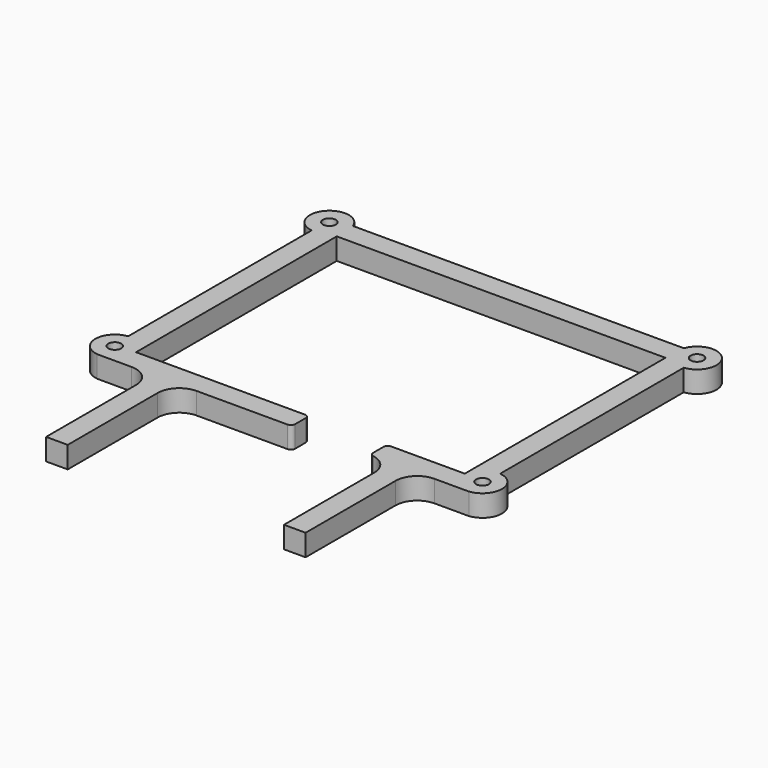
from build123d import *

# Parameters (mm, degrees)
F0_W      = 86
F0_H      = 68
F1_DEPTH  = 5
F2_W      = 76
F2_H      = 58
F3_DEPTH  = 5
F4_W      = 18
F4_H      = 5
F5_DEPTH  = 5
F6_R      = 4.5
F7_DEPTH  = 5
F8_R      = 1.5
F9_DEPTH  = 5
F10_R     = 1
F11_W     = 5
F11_H     = 5
F12_DEPTH = 31
F13_R     = 5


with BuildPart() as f1:
    # F0 (on Top) → F1 (new body)
    with BuildSketch(Plane.XY):
        Rectangle(F0_W, F0_H)
    extrude(amount=F1_DEPTH)

    # F2 (on face) → F3 (cut, through all)
    with BuildSketch(Plane.XY.offset(5)):
        Rectangle(F2_W, F2_H)
    extrude(amount=-F3_DEPTH, mode=Mode.SUBTRACT)

    # F4 (on face) → F5 (cut, through all)
    with BuildSketch(Plane.XY.offset(5)):
        with Locations((11, -31.5)):
            Rectangle(F4_W, F4_H)
    extrude(amount=-F5_DEPTH, mode=Mode.SUBTRACT)

    # F6 (on face) → F7 (join)
    with BuildSketch(Plane.XY.offset(5)):
        with Locations((-42.5, 32.5)):
            Circle(F6_R)
        with Locations((42.5, 32.5)):
            Circle(F6_R)
        with Locations((-42.5, -29.5)):
            Circle(F6_R)
        with Locations((42.5, -29.5)):
            Circle(F6_R)
    extrude(amount=-F7_DEPTH)

    # F8 (on face) → F9 (cut, through all)
    with BuildSketch(Plane.XY.offset(5)):
        with Locations((-42.5, 32.5)):
            Circle(F8_R)
        with Locations((-42.5, -29.5)):
            Circle(F8_R)
        with Locations((42.5, -29.5)):
            Circle(F8_R)
        with Locations((42.5, 32.5)):
            Circle(F8_R)
    extrude(amount=-F9_DEPTH, mode=Mode.SUBTRACT)

    # F10
    f10_edges = [f1.edges().sort_by_distance(p)[0] for p in [
        (20, -29, 2.5),
        (20, -34, 2.5),
        (2, -29, 2.5),
        (2, -34, 2.5),
    ]]
    fillet(f10_edges, radius=F10_R)

    # F11 (on face) → F12 (join)
    with BuildSketch(Plane.XZ.offset(34)):
        with Locations((-27.5, 2.5)):
            Rectangle(F11_W, F11_H)
        with Locations((27.5, 2.5)):
            Rectangle(F11_W, F11_H)
    extrude(amount=F12_DEPTH)

    # F13
    f13_edges = [f1.edges().sort_by_distance(p)[0] for p in [
        (25, -34, 2.5),
        (-25, -34, 2.5),
        (30, -34, 2.5),
        (-30, -34, 2.5),
    ]]
    fillet(f13_edges, radius=F13_R)


solid = f1.part
